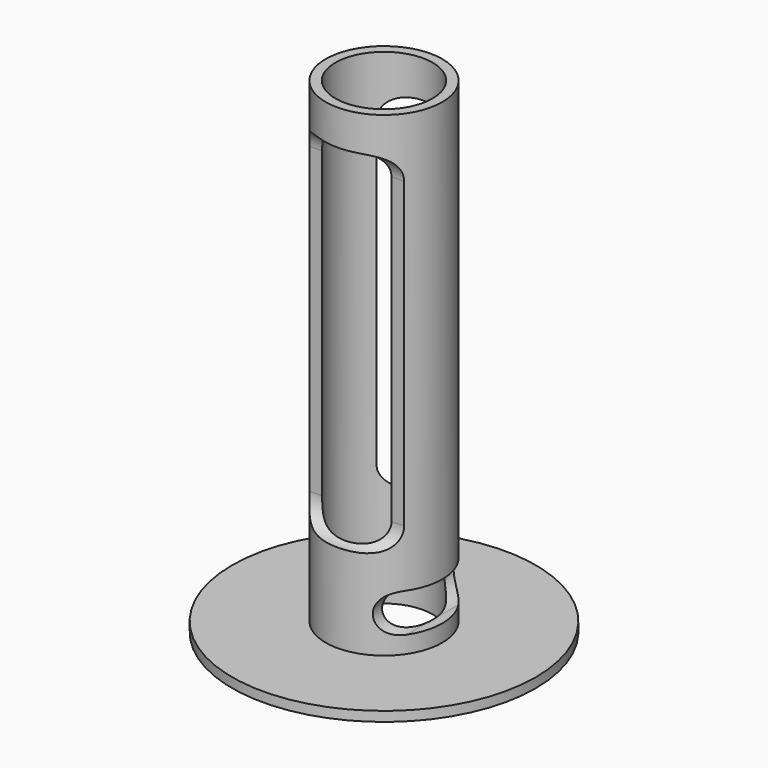
from build123d import *

# Parameters (mm, degrees)
F0_R     = 25
F0_R_2   = 9.6
F1_DEPTH = 1.6
F0_R_3   = 8
F2_DEPTH = 80
F4_DEPTH = 25
F6_DEPTH = 25


with BuildPart() as f1:
    # F0 (on Top) → F1 (new body)
    with BuildSketch(Plane.XY):
        Circle(F0_R)
        Circle(F0_R_2, mode=Mode.SUBTRACT)
    extrude(amount=F1_DEPTH)


with BuildPart() as f2:
    # F0 (on Top) → F2 (new body)
    with BuildSketch(Plane.XY):
        Circle(F0_R_2)
        Circle(F0_R_3, mode=Mode.SUBTRACT)
    extrude(amount=F2_DEPTH)

    # F3 (on Front) → F4 (cut, symmetric)
    with BuildSketch(Plane.XZ):
        with BuildLine():
            Line((8, 4.4), (8, 10.8))
            ThreePointArc((8, 10.8), (4.8, 7.6), (8, 4.4))
        make_face()
        with BuildLine():
            ThreePointArc((8, 4.4), (10.2627416998, 5.3372583002), (11.2, 7.6))
            ThreePointArc((11.2, 7.6), (10.2627416998, 9.8627416998), (8, 10.8))
            Line((8, 10.8), (8, 4.4))
        make_face()
        with BuildLine():
            ThreePointArc((8, 10.8), (10.2627416998, 9.8627416998), (11.2, 7.6))
            ThreePointArc((11.2, 7.6), (10.2627416998, 5.3372583002), (8, 4.4))
            Line((8, 4.4), (18.203275606, 4.4))
            Line((18.203275606, 4.4), (18.203275606, 10.8))
            Line((18.203275606, 10.8), (8, 10.8))
        make_face()
    extrude(amount=F4_DEPTH, both=True, mode=Mode.SUBTRACT)

    # F5 (on Right) → F6 (cut, symmetric)
    with BuildSketch(Plane.YZ):
        with BuildLine():
            ThreePointArc((13.6, 70.1958991309), (9.6, 74.1958991309), (5.6, 70.1958991309))
            Line((5.6, 70.1958991309), (13.6, 70.1958991309))
        make_face()
        with BuildLine():
            ThreePointArc((13.6, 70.1958991309), (9.6, 66.1958991309), (5.6, 70.1958991309))
            Line((5.6, 70.1958991309), (5.6, 20.1958991309))
            ThreePointArc((5.6, 20.1958991309), (9.6, 24.1958991309), (13.6, 20.1958991309))
            Line((13.6, 20.1958991309), (13.6, 70.1958991309))
        make_face()
        with BuildLine():
            Line((13.6, 20.1958991309), (5.6, 20.1958991309))
            ThreePointArc((5.6, 20.1958991309), (9.6, 16.1958991309), (13.6, 20.1958991309))
        make_face()
        with BuildLine():
            Line((13.6, 70.1958991309), (5.6, 70.1958991309))
            ThreePointArc((5.6, 70.1958991309), (9.6, 66.1958991309), (13.6, 70.1958991309))
        make_face()
        with BuildLine():
            ThreePointArc((13.6, 20.1958991309), (9.6, 24.1958991309), (5.6, 20.1958991309))
            Line((5.6, 20.1958991309), (13.6, 20.1958991309))
        make_face()
        with BuildLine():
            Line((-13.6, 70.1958991309), (-5.6, 70.1958991309))
            ThreePointArc((-5.6, 70.1958991309), (-9.6, 74.1958991309), (-13.6, 70.1958991309))
        make_face()
        with BuildLine():
            ThreePointArc((-13.6, 70.1958991309), (-9.6, 66.1958991309), (-5.6, 70.1958991309))
            Line((-5.6, 70.1958991309), (-13.6, 70.1958991309))
        make_face()
        with BuildLine():
            Line((-5.6, 20.1958991309), (-5.6, 70.1958991309))
            ThreePointArc((-5.6, 70.1958991309), (-9.6, 66.1958991309), (-13.6, 70.1958991309))
            Line((-13.6, 70.1958991309), (-13.6, 20.1958991309))
            ThreePointArc((-13.6, 20.1958991309), (-9.6, 24.1958991309), (-5.6, 20.1958991309))
        make_face()
        with BuildLine():
            Line((-13.6, 20.1958991309), (-5.6, 20.1958991309))
            ThreePointArc((-5.6, 20.1958991309), (-9.6, 24.1958991309), (-13.6, 20.1958991309))
        make_face()
        with BuildLine():
            ThreePointArc((-13.6, 20.1958991309), (-9.6, 16.1958991309), (-5.6, 20.1958991309))
            Line((-5.6, 20.1958991309), (-13.6, 20.1958991309))
        make_face()
    extrude(amount=F6_DEPTH, both=True, mode=Mode.SUBTRACT)


solid = Compound([f1.part, f2.part])
